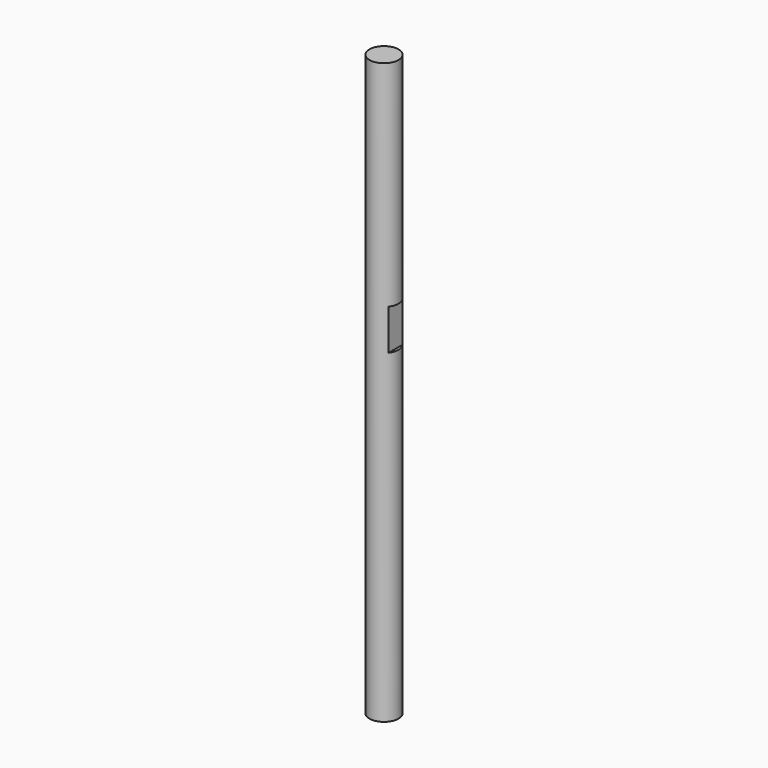
from build123d import *

# Parameters (mm, degrees)
SKETCH001_W  = 7
SKETCH001_H  = 7
PAD001_DEPTH = 2
SKETCH_R     = 2.5
PAD_DEPTH    = 100


with BuildPart() as pad001:
    # Sketch001 → Pad001 (new body)
    with BuildSketch(Plane.YZ.offset(2)):
        with Locations((0, 59.5)):
            Rectangle(SKETCH001_W, SKETCH001_H)
    extrude(amount=PAD001_DEPTH)


with BuildPart() as cut:
    # Sketch → Pad (new body)
    with BuildSketch(Plane.XY):
        Circle(SKETCH_R)
    extrude(amount=PAD_DEPTH)

    # Cut: cut Pad001
    add(pad001.part, mode=Mode.SUBTRACT)


solid = cut.part
